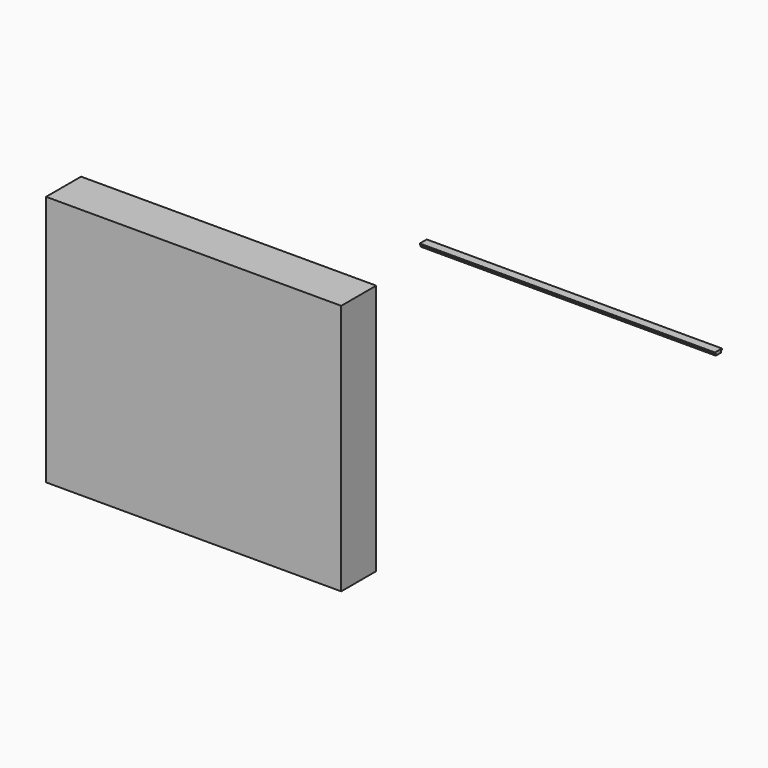
from build123d import *

# Parameters (mm, degrees)
F0_W     = 400
F0_H     = 2300
F1_DEPTH = 2700
F3_DEPTH = 2700


with BuildPart() as f1:
    # F0 (on Right) → F1 (new body)
    with BuildSketch(Plane.YZ):
        with Locations((169.243951, 1099.647177)):
            Rectangle(F0_W, F0_H)
    extrude(amount=F1_DEPTH)


with BuildPart() as f3:
    # F2 (on face) → F3 (new body)
    with BuildSketch(Plane.YZ.offset(2700)):
        Polygon((947.552996, 2386.640081), (867.552996, 2386.640081), (867.552996, 2376.640081), (877.552996, 2376.640081), (877.552996, 2356.640081), (937.552996, 2356.640081), (937.552996, 2376.640081), (947.552996, 2376.640081), align=None)
    extrude(amount=F3_DEPTH)


solid = Compound([f1.part, f3.part])
